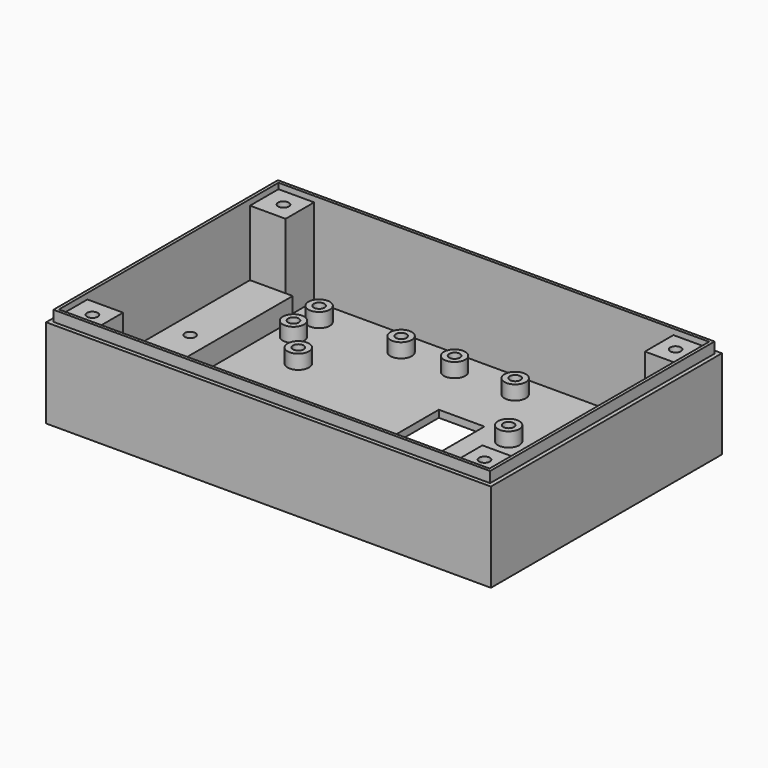
from build123d import *

# Parameters (mm, degrees)
F0_W      = 124.8
F0_H      = 81
F1_DEPTH  = 25
F2_W      = 122.5
F2_H      = 78.7
F3_DEPTH  = 3
F4_W      = 120.8
F4_H      = 77
F5_DEPTH  = 26
F6_W      = 10
F6_H      = 10
F7_DEPTH  = 24.4
F8_R      = 1.5
F9_DEPTH  = 4.8
F10_W     = 26
F10_H     = 45
F10_W_2   = 17
F10_H_2   = 12.8
F10_W_3   = 12.8
F10_H_3   = 30.7
F11_DEPTH = 2.001
F12_R     = 3
F13_DEPTH = 4
F14_R     = 1.5
F15_DEPTH = 4.8
F16_W     = 12
F16_H     = 57
F17_DEPTH = 6
F18_R     = 1.5
F19_DEPTH = 4.8
F20_W     = 26
F20_H     = 16
F21_DEPTH = 6
F22_R     = 1.5
F23_DEPTH = 4.8


with BuildPart() as f1:
    # F0 (on Top) → F1 (new body)
    with BuildSketch(Plane.XY):
        Rectangle(F0_W, F0_H)
    extrude(amount=F1_DEPTH)

    # F2 (on face) → F3 (join)
    with BuildSketch(Plane.XY.offset(25)):
        Rectangle(F2_W, F2_H)
    extrude(amount=F3_DEPTH)

    # F4 (on face) → F5 (cut)
    with BuildSketch(Plane.XY.offset(28)):
        Rectangle(F4_W, F4_H)
    extrude(amount=-F5_DEPTH, mode=Mode.SUBTRACT)

    # F6 (on face) → F7 (join)
    with BuildSketch(Plane.XY.offset(2)):
        with Locations((-55.4, 33.5)):
            Rectangle(F6_W, F6_H)
        with Locations((-55.4, -33.5)):
            Rectangle(F6_W, F6_H)
        with Locations((55.4, -33.5)):
            Rectangle(F6_W, F6_H)
        with Locations((55.4, 33.5)):
            Rectangle(F6_W, F6_H)
    extrude(amount=F7_DEPTH)

    # F8 (on face) → F9 (cut)
    with BuildSketch(Plane.XY.offset(26.4)):
        with Locations((-55, 33.5)):
            Circle(F8_R)
        with Locations((-55, -33.5)):
            Circle(F8_R)
        with Locations((55, -33.5)):
            Circle(F8_R)
        with Locations((55, 33.5)):
            Circle(F8_R)
    extrude(amount=-F9_DEPTH, mode=Mode.SUBTRACT)

    # F10 (on face) → F11 (cut, through all)
    with BuildSketch(Plane.XY.offset(2)):
        with Locations((44.4, 5)):
            Rectangle(F10_W, F10_H)
        with Locations((24.9, -29.1)):
            Rectangle(F10_W_2, F10_H_2)
        with Locations((9.5, 0)):
            Rectangle(F10_W_3, F10_H_3)
    extrude(amount=-F11_DEPTH, mode=Mode.SUBTRACT)

    # F12 (on face) → F13 (join)
    with BuildSketch(Plane.XY.offset(2)):
        with Locations((24.4, 13.2)):
            Circle(F12_R)
        with Locations((-34.6, 13.2)):
            Circle(F12_R)
        with Locations((-34.6, -15.8)):
            Circle(F12_R)
        with Locations((24.4, -15.8)):
            Circle(F12_R)
        with Locations((-43.4, 31.5)):
            Circle(F12_R)
        with Locations((-43.4, 22.5)):
            Circle(F12_R)
        with Locations((-20.4, 31.5)):
            Circle(F12_R)
        with Locations((-5.4, 31.5)):
            Circle(F12_R)
        with Locations((11.6, 31.5)):
            Circle(F12_R)
    extrude(amount=F13_DEPTH)

    # F14 (on face) → F15 (cut)
    with BuildSketch(Plane.XY.offset(2)):
        with Locations((-34.6, -15.8)):
            Circle(F14_R)
        with Locations((24.4, -15.8)):
            Circle(F14_R)
        with Locations((-34.6, 13.2)):
            Circle(F14_R)
        with Locations((24.4, 13.2)):
            Circle(F14_R)
        with Locations((11.6, 31.5)):
            Circle(F14_R)
        with Locations((-5.4, 31.5)):
            Circle(F14_R)
        with Locations((-20.4, 31.5)):
            Circle(F14_R)
        with Locations((-43.4, 22.5)):
            Circle(F14_R)
        with Locations((-43.4, 31.5)):
            Circle(F14_R)
    extrude(amount=F15_DEPTH, mode=Mode.SUBTRACT)

    # F16 (on face) → F17 (join)
    with BuildSketch(Plane.XY.offset(2)):
        with Locations((-54.4, 0)):
            Rectangle(F16_W, F16_H)
    extrude(amount=F17_DEPTH)

    # F18 (on face) → F19 (cut)
    with BuildSketch(Plane.XY.offset(8)):
        with Locations((-54.4, 0)):
            Circle(F18_R)
    extrude(amount=-F19_DEPTH, mode=Mode.SUBTRACT)

    # F20 (on face) → F21 (join)
    with BuildSketch(Plane.XY.offset(2)):
        with Locations((-22.927424, -30.5)):
            Rectangle(F20_W, F20_H)
    extrude(amount=F21_DEPTH)

    # F22 (on face) → F23 (cut)
    with BuildSketch(Plane.XY.offset(8)):
        with Locations((-22.927424, -25)):
            Circle(F22_R)
        with Locations((-22.927424, -36)):
            Circle(F22_R)
    extrude(amount=-F23_DEPTH, mode=Mode.SUBTRACT)


solid = f1.part
